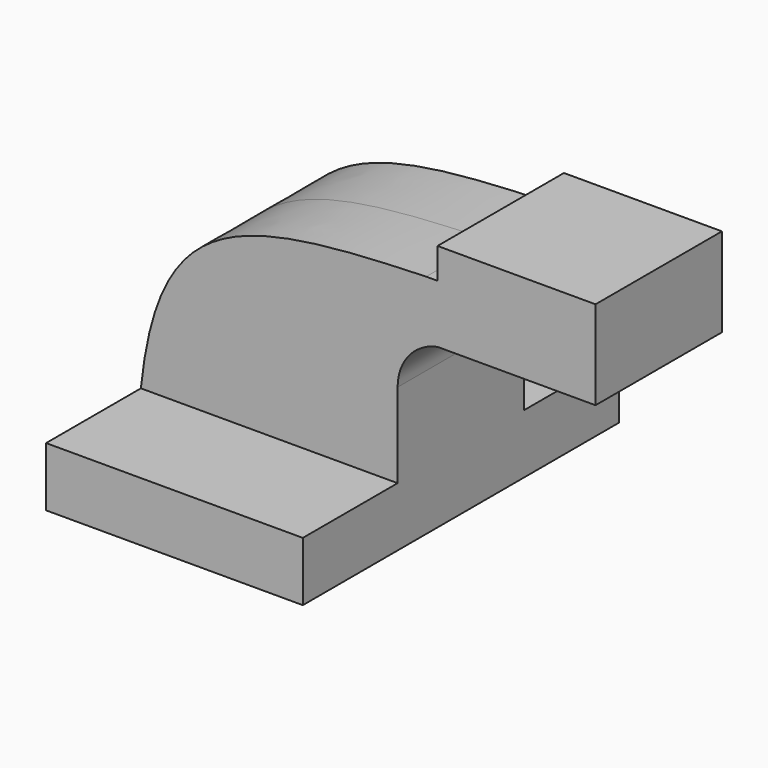
from build123d import *

# Parameters (mm, degrees)
F1_DEPTH = 63.5
F0_W     = 10.36902
F0_H     = 18.698876
F2_DEPTH = 25.4


with BuildPart() as f1:
    # F0 (on Front) → F1 (new body, symmetric)
    with BuildSketch(Plane.XZ):
        Polygon((41.275, -9.525), (41.275, 9.525), (22.225, 9.525), (-41.275, 9.525), (-41.275, -9.525), align=None)
    extrude(amount=F1_DEPTH, both=True)

    # F0 (on Front) → F2 (join, symmetric)
    with BuildSketch(Plane.XZ):
        Polygon((41.275, -9.525), (41.275, 9.525), (22.225, 9.525), (-41.275, 9.525), (-41.275, -9.525), align=None)
        with BuildLine():
            Line((22.225, 9.525), (41.275, 9.525))
            Line((41.275, 9.525), (41.275, 36.699275))
            ThreePointArc((41.275, 36.699275), (44.898904, 46.795129), (54.116105, 52.281673))
            Line((54.116105, 52.281673), (54.116105, 70.980549))
            Line((54.116105, 70.980549), (50.47543, 70.980549))
            ThreePointArc((50.47543, 70.980549), (30.197588, 58.910154), (22.225, 36.699275))
            Line((22.225, 36.699275), (22.225, 9.525))
        make_face()
        with BuildLine():
            Line((-41.275, 9.525), (22.225, 9.525))
            Line((22.225, 9.525), (22.225, 36.699275))
            ThreePointArc((22.225, 36.699275), (30.197588, 58.910154), (50.47543, 70.980549))
            add(Edge.make_bspline(
                [(-41.275, 9.525), (-35.642035, 63.796431), (-9.642164, 69.051728), (50.47543, 70.980549)],
                knots=[0, 0, 0, 0, 110.430639, 110.430639, 110.430639, 110.430639], degree=3))
        make_face()
        with Locations((59.300615, 61.631111)):
            Rectangle(F0_W, F0_H)
        Polygon((64.485125, 70.980549), (64.485125, 52.281673), (104.916105, 52.281673), (104.916105, 80.856673), (54.116105, 80.856673), (54.116105, 70.980549), align=None)
    extrude(amount=F2_DEPTH, both=True)


solid = f1.part
